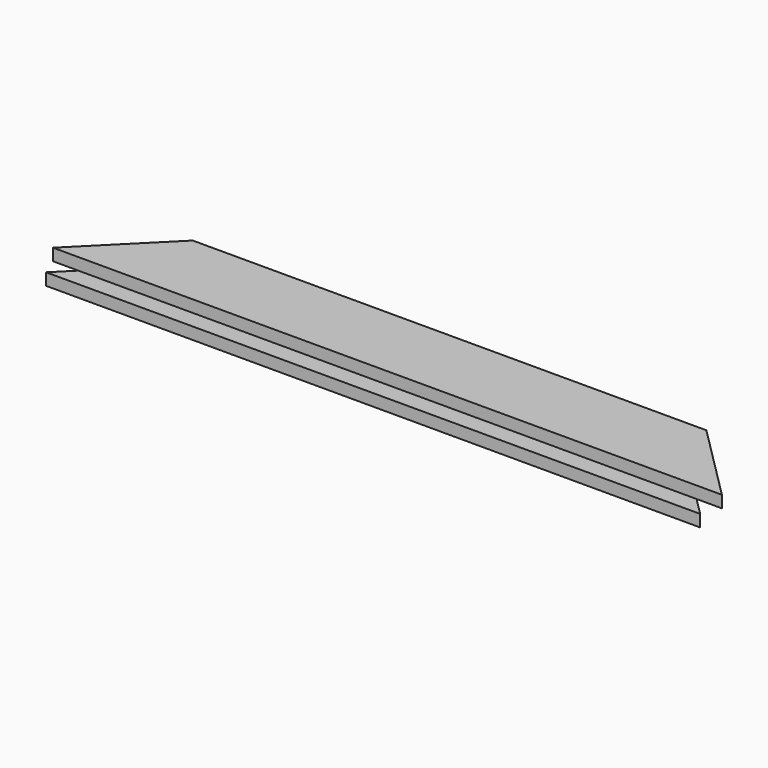
from build123d import *

# Parameters (mm, degrees)
F1_DEPTH = 12.7
F2_DEPTH = 25.4
F3_DEPTH = 12.7


with BuildPart() as f1:
    # F0 (on Top) → F1 (new body)
    with BuildSketch(Plane.XY):
        Polygon((61.3904680035, 87.9025101712), (-430.82799527, 87.9025101712), (-513.37799527, 5.3525101712), (143.9404680035, 5.3525101712), align=None)
        Polygon((-430.82799527, 87.9025101712), (-457.7687636333, 87.9025101712), (-540.3187636333, 5.3525101712), (-513.37799527, 5.3525101712), align=None)
        Polygon((143.9404680035, 5.3525101712), (-513.37799527, 5.3525101712), (-532.42799527, -13.6974898288), (162.9904680035, -13.6974898288), align=None)
        Polygon((88.3312363667, 87.9025101712), (61.3904680035, 87.9025101712), (143.9404680035, 5.3525101712), (170.8812363667, 5.3525101712), align=None)
    extrude(amount=F1_DEPTH)

    # F0 (on Top) → F2 (join)
    with BuildSketch(Plane.XY):
        Polygon((61.3904680035, 87.9025101712), (-430.82799527, 87.9025101712), (-513.37799527, 5.3525101712), (143.9404680035, 5.3525101712), align=None)
        Polygon((-430.82799527, 87.9025101712), (-457.7687636333, 87.9025101712), (-540.3187636333, 5.3525101712), (-513.37799527, 5.3525101712), align=None)
        Polygon((88.3312363667, 87.9025101712), (61.3904680035, 87.9025101712), (143.9404680035, 5.3525101712), (170.8812363667, 5.3525101712), align=None)
    extrude(amount=F2_DEPTH)

    # F0 (on Top) → F3 (cut)
    with BuildSketch(Plane.XY):
        Polygon((88.3312363667, 87.9025101712), (61.3904680035, 87.9025101712), (143.9404680035, 5.3525101712), (170.8812363667, 5.3525101712), align=None)
        Polygon((-430.82799527, 87.9025101712), (-457.7687636333, 87.9025101712), (-540.3187636333, 5.3525101712), (-513.37799527, 5.3525101712), align=None)
    extrude(amount=F3_DEPTH, mode=Mode.SUBTRACT)


solid = f1.part
